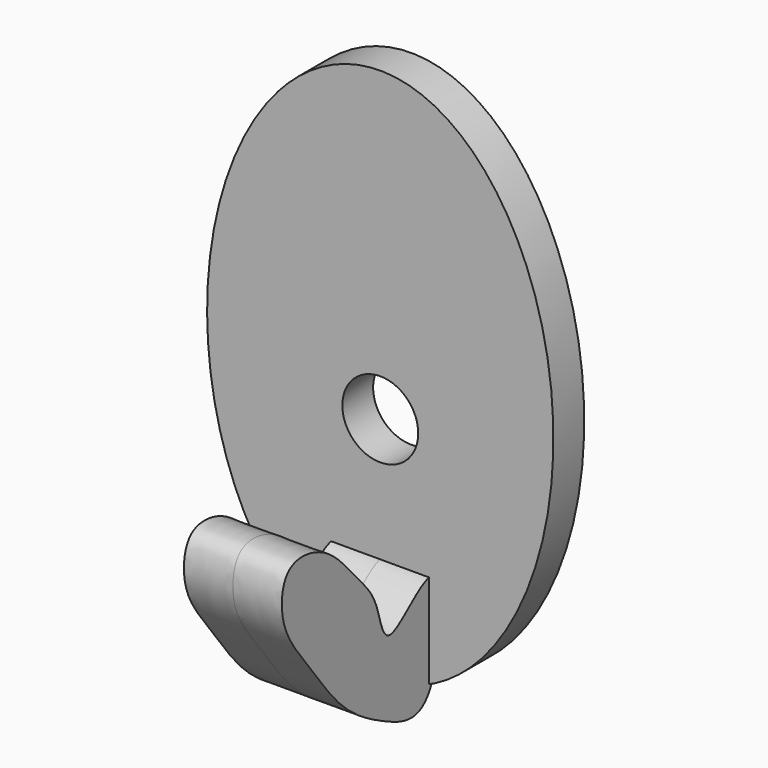
from build123d import *

# Parameters (mm, degrees)
F1_DEPTH = 5
F2_R     = 4.9222037408
F3_DEPTH = 28.25456
F5_DEPTH = 6.35


with BuildPart() as f1:
    # F0 (on Front) → F1 (new body)
    with BuildSketch(Plane.XZ):
        with BuildLine():
            add(Edge.make_bspline(
                [(0, 0), (38.9075261288, 0), (19.4537630644, 52.0845986903), (0, 104.1691973805), (-19.4537630644, 52.0845986903), (-38.9075261288, 0), (0, 0)],
                knots=[0, 0, 0, 2.0943951024, 2.0943951024, 4.1887902048, 4.1887902048, 6.2831853072, 6.2831853072, 6.2831853072], degree=2, weights=[1, 0.5, 1, 0.5, 1, 0.5, 1]))
        make_face()
    extrude(amount=F1_DEPTH)

    # F2 (on face) → F3 (cut)
    with BuildSketch(Plane.XZ.offset(5)):
        with Locations((0, 29.6151526272)):
            Circle(F2_R)
    extrude(amount=-F3_DEPTH, mode=Mode.SUBTRACT)


with BuildPart() as f5:
    # F4 (on Right) → F5 (new body, symmetric)
    with BuildSketch(Plane.YZ):
        with BuildLine():
            add(Edge.make_bspline(
                [(-5.3994450718, 0), (-7.11077019, -2.1275935908), (-12.4766082697, 0.065470445), (-19.215628499, 3.8856261496), (-24.5696641322, 11.6769624976), (-29.4194286226, 17.4081099548), (-28.7372517711, 25.0991898765), (-21.3202221959, 24.053798475), (-16.9242141571, 18.3095024026), (-13.1870011289, 14.8182119075), (-12.2789370606, 6.3077737184), (-1.5984544618, 20.0761077292), (-2.9310911567, 3.0687646163), (-5.3994450718, 0)],
                knots=[0, 0, 0, 0, 0.0860802801, 0.1822535159, 0.284875751, 0.3778340879, 0.4578069602, 0.5372376114, 0.6273791406, 0.7072174847, 0.7811784852, 0.8758408942, 1, 1, 1, 1], degree=3))
        make_face()
    extrude(amount=F5_DEPTH, both=True)


solid = Compound([f1.part, f5.part])
